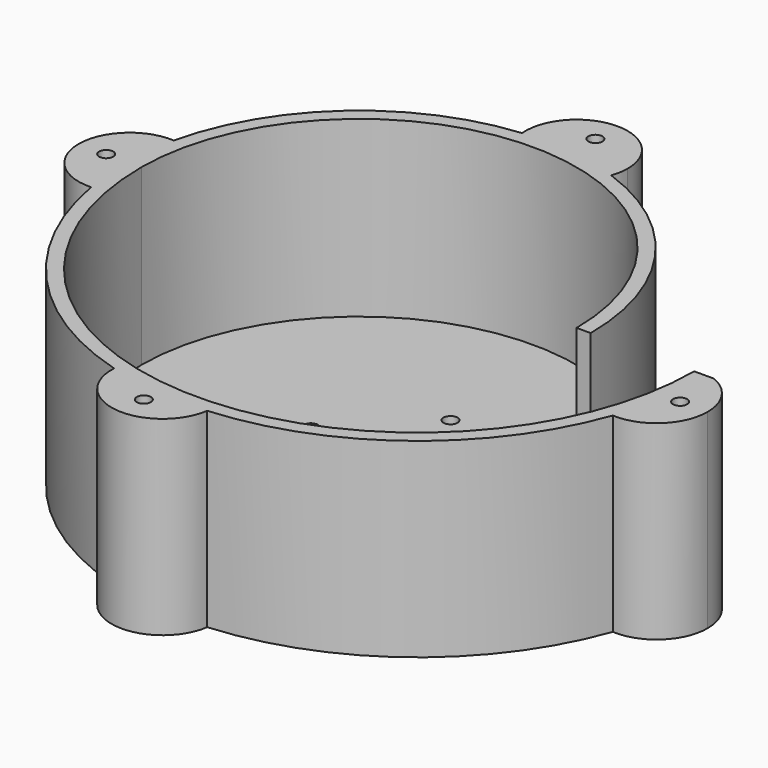
from build123d import *

# Parameters (mm, degrees)
F0_R     = 40
F1_DEPTH = 3.5
F2_DEPTH = 37
F3_R     = 1.5
F4_DEPTH = 25
F5_R     = 1.5
F6_DEPTH = 40.5


with BuildPart() as f1:
    # F0 (on Top) → F1 (new body)
    with BuildSketch(Plane.XY):
        with BuildLine():
            Line((43, 0), (40, 0))
            ThreePointArc((40, 0), (-6.25, 46.25), (-52.5, 0))
            ThreePointArc((-52.5, 0), (6.25, -58.75), (65, 0))
            Line((65, 0), (43, 0))
        make_face()
        Circle(F0_R, mode=Mode.SUBTRACT)
        Circle(F0_R)
        with BuildLine():
            ThreePointArc((-52.5, 0), (-6.25, 46.25), (40, 0))
            Line((40, 0), (43, 0))
            ThreePointArc((43, 0), (-6.25, 49.25), (-55.5, 0))
            ThreePointArc((-55.5, 0), (6.25, -61.75), (68, 0))
            Line((68, 0), (65, 0))
            ThreePointArc((65, 0), (6.25, -58.75), (-52.5, 0))
        make_face()
    extrude(amount=-F1_DEPTH)

    # F0 (on Top) → F2 (join)
    with BuildSketch(Plane.XY):
        with BuildLine():
            ThreePointArc((-52.5, 0), (-6.25, 46.25), (40, 0))
            Line((40, 0), (43, 0))
            ThreePointArc((43, 0), (-6.25, 49.25), (-55.5, 0))
            ThreePointArc((-55.5, 0), (6.25, -61.75), (68, 0))
            Line((68, 0), (65, 0))
            ThreePointArc((65, 0), (6.25, -58.75), (-52.5, 0))
        make_face()
    extrude(amount=F2_DEPTH)

    # F3 (on face) → F4 (cut)
    with BuildSketch(Plane.XY):
        with BuildLine():
            ThreePointArc((1.5, 16.5), (-1.0606601718, 17.5606601718), (0, 15))
            ThreePointArc((0, 15), (1.0606601718, 15.4393398282), (1.5, 16.5))
        make_face()
        with BuildLine():
            ThreePointArc((18, 0), (16.5, 1.5), (15, 0))
            ThreePointArc((15, 0), (16.5, -1.5), (18, 0))
        make_face()
        with BuildLine():
            ThreePointArc((1.5, -16.5), (1.0606601718, -15.4393398282), (0, -15))
            ThreePointArc((0, -15), (-1.0606601718, -17.5606601718), (1.5, -16.5))
        make_face()
        with Locations((-16.5, 0)):
            Circle(F3_R)
    extrude(amount=-F4_DEPTH, mode=Mode.SUBTRACT)

    # F5 (on face) → F6 (join)
    with BuildSketch(Plane(origin=(0, 0, -3.5), x_dir=(1, 0, 0), z_dir=(0, 0, -1))):
        with BuildLine():
            ThreePointArc((10.7428359613, 61.5863371619), (-1.1250923825, 70.8008868716), (-10.8391434064, 59.3382143111))
            ThreePointArc((-10.8391434064, 59.3382143111), (-0.147675703, 61.417686749), (10.7428359613, 61.5863371619))
        make_face()
        with Locations((0, 65)):
            Circle(F5_R, mode=Mode.SUBTRACT)
        with BuildLine():
            ThreePointArc((-55.5, 0), (-55.2593781422, 5.4459985826), (-54.5393878361, 10.8495542082))
            ThreePointArc((-54.5393878361, 10.8495542082), (-65.8586269328, -0.1233337651), (-54.2930770248, -10.8362931849))
            ThreePointArc((-54.2930770248, -10.8362931849), (-55.1973392713, -5.4516491325), (-55.5, 0))
        make_face()
        with Locations((-60, 0)):
            Circle(F5_R, mode=Mode.SUBTRACT)
        with BuildLine():
            ThreePointArc((10.2469559678, -46.4048806032), (-0.1412893215, -48.8696854281), (-10.8166174818, -49.0378272844))
            ThreePointArc((-10.8166174818, -49.0378272844), (-0.481560086, -60.8486446142), (10.859327331, -50))
            ThreePointArc((10.859327331, -50), (10.7051398656, -48.1765498249), (10.2469559678, -46.4048806032))
        make_face()
        with Locations((0, -55)):
            Circle(F5_R, mode=Mode.SUBTRACT)
        with BuildLine():
            ThreePointArc((75.859327331, 10), (72.4550295609, 17.8960448535), (64.3765674089, 20.8414169686))
            ThreePointArc((64.3765674089, 20.8414169686), (67.0873981918, 10.5770261061), (68, 0))
            Line((68, 0), (69.2337914548, 0))
            ThreePointArc((69.2337914548, 0), (74.0526547858, 4.0021310941), (75.859327331, 10))
        make_face()
        with Locations((70, 10)):
            Circle(F5_R, mode=Mode.SUBTRACT)
    extrude(amount=-F6_DEPTH)


solid = f1.part
